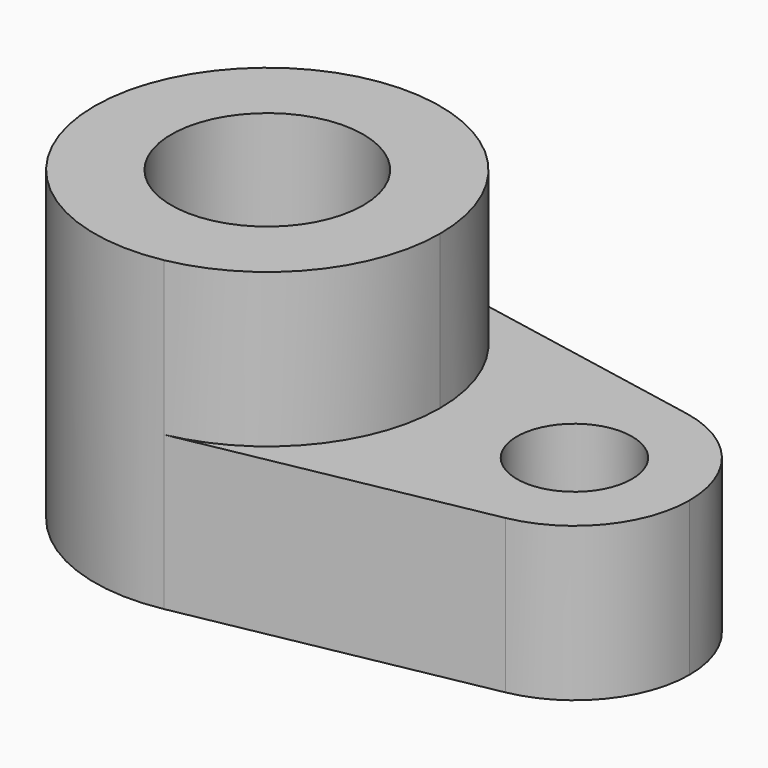
from build123d import *

# Parameters (mm, degrees)
F0_R     = 15.875
F0_R_2   = 9.525
F1_DEPTH = 25.4
F2_DEPTH = 25.4


with BuildPart() as f1:
    # F0 (on Top) → F1 (new body)
    with BuildSketch(Plane.XY):
        with BuildLine():
            ThreePointArc((5.357812, -28.068211), (22.018516, -18.21306), (28.575, 0))
            ThreePointArc((28.575, 0), (22.018516, 18.21306), (5.357812, 28.068211))
            ThreePointArc((5.357812, 28.068211), (-28.575, 0), (5.357812, -28.068211))
        make_face()
        Circle(F0_R, mode=Mode.SUBTRACT)
        with BuildLine():
            ThreePointArc((69.85, 0), (65.479011, 12.14204), (54.371875, 18.712141))
            ThreePointArc((54.371875, 18.712141), (31.75, 0), (54.371875, -18.712141))
            ThreePointArc((54.371875, -18.712141), (65.479011, -12.14204), (69.85, 0))
        make_face()
        with Locations((50.8, 0)):
            Circle(F0_R_2, mode=Mode.SUBTRACT)
        with BuildLine():
            ThreePointArc((5.357812, 28.068211), (22.018516, 18.21306), (28.575, 0))
            ThreePointArc((28.575, 0), (22.018516, -18.21306), (5.357812, -28.068211))
            Line((5.357813, -28.068211), (54.371875, -18.712141))
            ThreePointArc((54.371875, -18.712141), (31.75, 0), (54.371875, 18.712141))
            Line((54.371875, 18.712141), (5.357812, 28.068211))
        make_face()
    extrude(amount=-F1_DEPTH)

    # F0 (on Top) → F2 (join)
    with BuildSketch(Plane.XY):
        with BuildLine():
            ThreePointArc((5.357812, -28.068211), (22.018516, -18.21306), (28.575, 0))
            ThreePointArc((28.575, 0), (22.018516, 18.21306), (5.357812, 28.068211))
            ThreePointArc((5.357812, 28.068211), (-28.575, 0), (5.357812, -28.068211))
        make_face()
        Circle(F0_R, mode=Mode.SUBTRACT)
    extrude(amount=F2_DEPTH)


solid = f1.part
